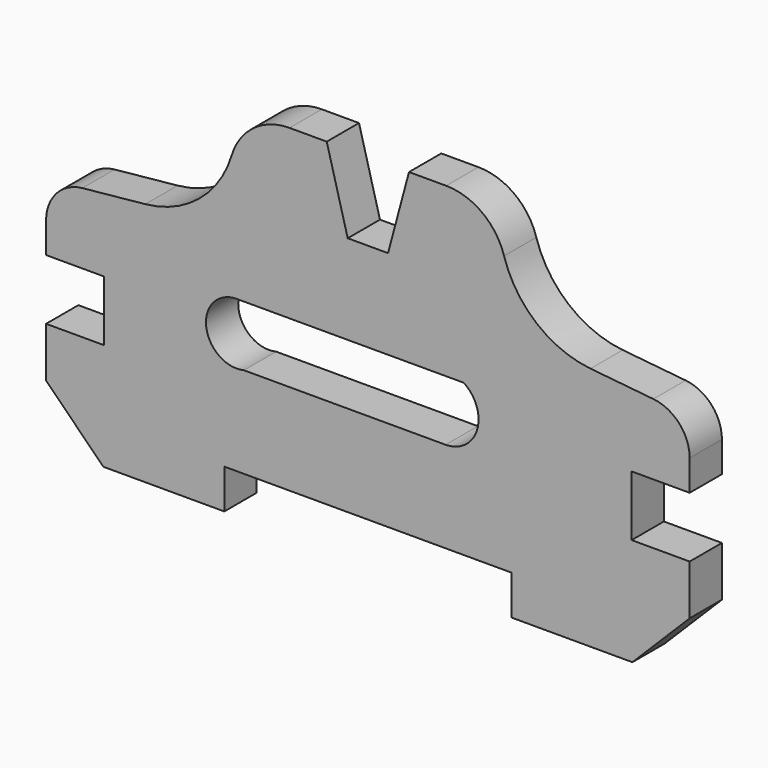
from build123d import *

# Parameters (mm, degrees)
F1_DEPTH = 6.35
F2_SIZE  = 18.034


with BuildPart() as f1:
    # F0 (on Front) → F1 (new body, symmetric)
    with BuildSketch(Plane.XZ):
        with BuildLine():
            Line((-45.212, -50.038), (45.212, -50.038))
            Line((45.212, -50.038), (45.212, -62.484))
            Line((45.212, -62.484), (101.346, -62.484))
            Line((101.346, -62.484), (101.346, -28.702))
            Line((101.346, -28.702), (83.07388, -28.702))
            Line((83.07388, -28.702), (83.07388, -9.652))
            Line((83.07388, -9.652), (101.346, -9.652))
            Line((101.346, -9.652), (101.346, 0))
            ThreePointArc((101.346, 0), (98.064572, 8.519419), (89.916, 12.63634))
            Line((89.916, 12.63634), (70.104, 14.627521))
            ThreePointArc((70.104, 14.627521), (53.106495, 21.700368), (42.891581, 37.01689))
            ThreePointArc((42.891581, 37.01689), (36.010992, 46.794292), (24.65913, 50.546))
            Line((24.65913, 50.546), (12.951732, 50.546))
            Line((12.951732, 50.546), (6.35, 25.908))
            Line((6.35, 25.908), (-6.35, 25.908))
            Line((-6.35, 25.908), (-12.951732, 50.546))
            Line((-12.951732, 50.546), (-24.65913, 50.546))
            ThreePointArc((-24.65913, 50.546), (-36.010992, 46.794292), (-42.891581, 37.01689))
            ThreePointArc((-42.891581, 37.01689), (-53.106495, 21.700368), (-70.104, 14.627521))
            Line((-70.104, 14.627521), (-89.916, 12.63634))
            ThreePointArc((-89.916, 12.63634), (-98.064572, 8.519419), (-101.346, 0))
            Line((-101.346, 0), (-101.346, -9.652))
            Line((-101.346, -9.652), (-83.07388, -9.652))
            Line((-83.07388, -9.652), (-83.07388, -28.702))
            Line((-83.07388, -28.702), (-101.346, -28.702))
            Line((-101.346, -28.702), (-101.346, -62.484))
            Line((-101.346, -62.484), (-45.212, -62.484))
            Line((-45.212, -62.484), (-45.212, -50.038))
        make_face()
        with BuildLine():
            ThreePointArc((-39.029952, -21.325139), (-50.915473, -13.092182), (-41.32179, -2.275139))
            Line((-41.32179, -2.275139), (30.210615, -2.275139))
            ThreePointArc((30.210615, -2.275139), (34.418121, -13.932974), (24.470048, -21.325139))
            Line((24.470048, -21.325139), (-39.029952, -21.325139))
        make_face(mode=Mode.SUBTRACT)
    extrude(amount=F1_DEPTH, both=True)

    # F2
    f2_edges = [f1.edges().sort_by_distance(p)[0] for p in [
        (-101.346, 0, -62.484),
        (101.346, 0, -62.484),
    ]]
    chamfer(f2_edges, length=F2_SIZE)


solid = f1.part
